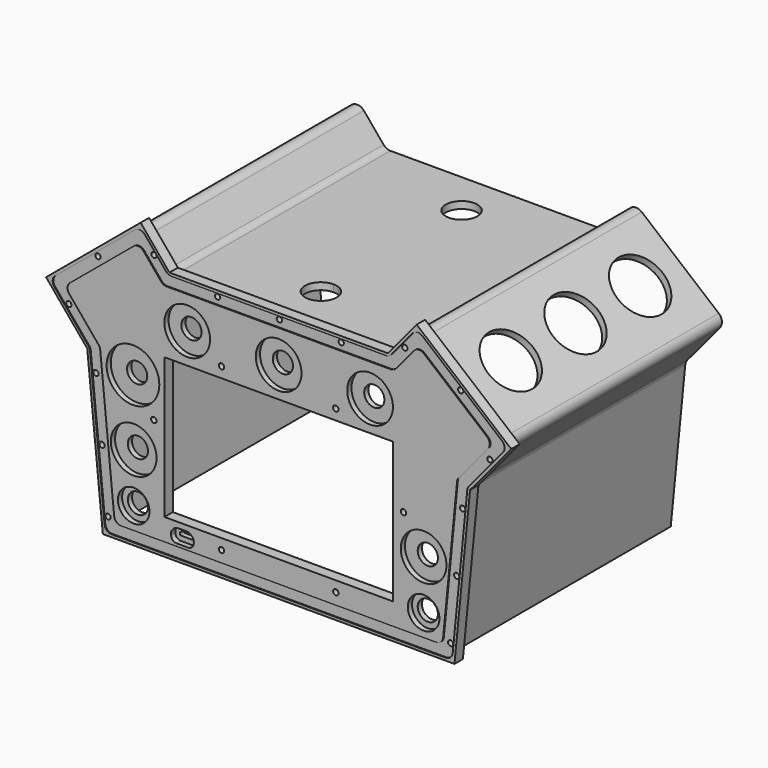
from build123d import *

# Parameters (mm, degrees)
F1_DEPTH  = 6
F3_DEPTH  = 0.5
F5_DEPTH  = 25
F7_R      = 1.5
F8_DEPTH  = 4
F9_R      = 1.5
F10_DEPTH = 1
F13_DEPTH = 150
F14_R     = 1.5
F15_DEPTH = 4
F6_R      = 9
F6_R_2    = 5.75
F6_R_3    = 13
F6_R_4    = 15
F16_DEPTH = 3
F6_R_5    = 1.55
F17_DEPTH = 8
F18_R     = 5
F19_R     = 16
F21_DEPTH = 4
F20_R     = 16
F22_DEPTH = 4
F23_R     = 4
F25_DEPTH = 25


with BuildPart() as f1:
    # F0 (on Front) → F1 (new body)
    with BuildSketch(Plane.XZ):
        Polygon((-132.2778422665, 86.7005174646), (-108.8532113969, 58.5797888532), (-100, -31.4202111468), (0, -31.4202111468), (100, -31.4202111468), (108.8532113969, 58.5797888532), (132.2778422665, 86.7005174646), (78.4935967725, 131.5029162469), (62.1075346203, 111.8318268983), (0, 111.8318268983), (-62.1075346203, 111.8318268983), (-78.4935967725, 131.5029162469), align=None)
    extrude(amount=F1_DEPTH)

    # F2 (on face) → F3 (cut)
    with BuildSketch(Plane.XZ.offset(6)):
        Polygon((-62.8102746949, 110.3318291657), (-78.6860646254, 129.3903484914), (-130.1652745109, 86.5080496117), (-107.4055608178, 59.1855387214), (-98.640315703, -29.9202134141), (98.640315703, -29.9202134141), (107.4055608178, 59.1855387214), (130.1652745109, 86.5080496117), (78.6860646254, 129.3903484914), (62.8102746949, 110.3318291657), align=None)
        Polygon((-121.7149907158, 85.7381770364), (-79.4559372007, 120.9400646963), (-65.6212392426, 104.3318291657), (65.6212392426, 104.3318291657), (79.4559372007, 120.9400646963), (121.7149907158, 85.7381770364), (101.6149497489, 61.6085418565), (93.2015702942, -23.9202134141), (-93.2015702942, -23.9202134141), (-101.6149497489, 61.6085418565), align=None, mode=Mode.SUBTRACT)
    extrude(amount=-F3_DEPTH, mode=Mode.SUBTRACT)

    # F4 (on face) → F5 (cut)
    with BuildSketch(Plane.XZ.offset(6)):
        Polygon((-65, -11.4703345299), (0, -11.4703345299), (65, -11.4703345299), (65, 68.5296654701), (-45.0328700244, 68.5296654701), (-65, 68.5296654701), align=None)
    extrude(amount=-F5_DEPTH, mode=Mode.SUBTRACT)

    # F7 (on face) → F8 (cut)
    with BuildSketch(Plane.XZ.offset(5.5)):
        with Locations((100.8311893593, 12.7868732325)):
            Circle(F7_R)
        with Locations((0, 108.3312272517)):
            Circle(F7_R)
        with Locations((71.3451554603, 117.451983377)):
            Circle(F7_R)
        with Locations((103.145215786, 106.4120438447)):
            Circle(F7_R)
        with Locations((97.4048682052, -22.0450133565)):
            Circle(F7_R)
        with Locations((104.2575105133, 47.6187598215)):
            Circle(F7_R)
        with Locations((35.1662226021, 108.3312272517)):
            Circle(F7_R)
        with Locations((-97.4048682052, -22.0450133565)):
            Circle(F7_R)
        with Locations((-100.8311893593, 12.7868732325)):
            Circle(F7_R)
        with Locations((-104.2575105133, 47.6187598215)):
            Circle(F7_R)
        with Locations((-103.145215786, 106.4120438447)):
            Circle(F7_R)
        with Locations((-71.3451554603, 117.451983377)):
            Circle(F7_R)
        with Locations((-35.1662226021, 108.3312272517)):
            Circle(F7_R)
        with Locations((119.7500549322, 77.1305920618)):
            Circle(F7_R)
        with Locations((-119.7500549322, 77.1305920618)):
            Circle(F7_R)
    extrude(amount=-F8_DEPTH, mode=Mode.SUBTRACT)

    # F9 (on face) → F10 (cut)
    with BuildSketch(Plane(origin=(0, 0, 0), x_dir=(-1, 0, 0), z_dir=(0, 1, 0))):
        Polygon((-62.8102746949, 110.3318291657), (-78.6860646254, 129.3903484914), (-130.1652745109, 86.5080496117), (-107.4055608178, 59.1855387214), (-98.640315703, -29.9202134141), (98.640315703, -29.9202134141), (107.4055608178, 59.1855387214), (130.1652745109, 86.5080496117), (78.6860646254, 129.3903484914), (62.8102746949, 110.3318291657), align=None)
        Polygon((-124.3909155202, 85.9819701646), (-79.2121440725, 123.6159895006), (-64.7310999361, 106.2318303035), (64.7310999361, 106.2318303035), (79.2121440725, 123.6159895006), (124.3909155202, 85.9819701646), (103.4486443522, 60.8412570709), (94.9238407051, -25.8202145519), (-94.9238407051, -25.8202145519), (-103.4486443522, 60.8412570709), align=None, mode=Mode.SUBTRACT)
        with Locations((103.145215786, 106.4120438447)):
            Circle(F9_R, mode=Mode.SUBTRACT)
    extrude(amount=-F10_DEPTH, mode=Mode.SUBTRACT)

    # F6 (on face) → F16 (cut)
    with BuildSketch(Plane.XZ.offset(6)):
        with Locations((-82.4464559555, -11.4864352222)):
            Circle(F6_R)
        with Locations((-82.4464559555, -11.4864352222)):
            Circle(F6_R_2, mode=Mode.SUBTRACT)
        with Locations((82.4464559555, -11.4864352222)):
            Circle(F6_R)
        with Locations((82.4464559555, -11.4864352222)):
            Circle(F6_R_2, mode=Mode.SUBTRACT)
        with Locations((-82.4464559555, 16.5135647778)):
            Circle(F6_R_3)
        with Locations((-82.4464559555, 16.5135647778)):
            Circle(F6_R_2, mode=Mode.SUBTRACT)
        with Locations((82.4464559555, 16.5135647778)):
            Circle(F6_R_3)
        with Locations((82.4464559555, 16.5135647778)):
            Circle(F6_R_2, mode=Mode.SUBTRACT)
        with Locations((0, 85.8318268983)):
            Circle(F6_R_3)
        with Locations((0, 85.8318268983)):
            Circle(F6_R_2, mode=Mode.SUBTRACT)
        with Locations((-52, 85.8318268983)):
            Circle(F6_R_3)
        with Locations((-52, 85.8318268983)):
            Circle(F6_R_2, mode=Mode.SUBTRACT)
        with Locations((52, 85.8318268983)):
            Circle(F6_R_3)
        with Locations((52, 85.8318268983)):
            Circle(F6_R_2, mode=Mode.SUBTRACT)
        with Locations((-82.8748941422, 53.7729853302)):
            Circle(F6_R_4)
        with Locations((-82.8748941422, 53.7729853302)):
            Circle(F6_R_2, mode=Mode.SUBTRACT)
        with BuildLine():
            Line((-61.1869924525, -18.7295077844), (-61.1869924525, -19.2715077844))
            ThreePointArc((-61.1869924525, -19.2715077844), (-60.2643789948, -21.498893707), (-58.0369930722, -22.4215071648))
            Line((-58.0369930722, -22.4215071648), (-51.4369930721, -22.4215071648))
            ThreePointArc((-51.4369930721, -22.4215071648), (-49.2096071495, -21.498893707), (-48.2869936917, -19.2715077844))
            Line((-48.2869936917, -19.2715077844), (-48.2869936917, -18.3915077844))
            ThreePointArc((-48.2869936917, -18.3915077844), (-48.5267731171, -17.1860552096), (-49.2096071495, -16.1641218618))
            add(Edge.make_bspline(
                [(-49.8796071495, -15.4941218618), (-49.6562738162, -15.7174551951), (-49.4329404828, -15.9407885284), (-49.2096071495, -16.1641218618)],
                knots=[0, 0, 0, 0, 1, 1, 1, 1], degree=3))
            ThreePointArc((-49.8796071495, -15.4941218618), (-50.9015404973, -14.8112878294), (-52.1069930721, -14.571508404))
            Line((-52.1069930721, -14.571508404), (-57.3669930721, -14.571508404))
            ThreePointArc((-57.3669930721, -14.571508404), (-58.572445647, -14.8112878294), (-59.5943789948, -15.4941218618))
            add(Edge.make_bspline(
                [(-59.5943789948, -15.4941218618), (-59.8177123281, -15.7174551951), (-60.0410456614, -15.9407885284), (-60.2643789948, -16.1641218618)],
                knots=[0, 0, 0, 0, 1, 1, 1, 1], degree=3))
            ThreePointArc((-60.2643789948, -16.1641218618), (-60.9472130271, -17.1860552096), (-61.1869924525, -18.3915077844))
            add(Edge.make_bspline(
                [(-61.1869924525, -18.3915077844), (-61.1869924525, -18.5041744511), (-61.1869924525, -18.6168411177), (-61.1869924525, -18.7295077844)],
                knots=[0, 0, 0, 0, 1, 1, 1, 1], degree=3))
        make_face()
        with BuildLine():
            add(Edge.make_bspline(
                [(-57.6851911237, -17.4033097329), (-57.908524457, -17.6266430662), (-58.1318577903, -17.8499763995), (-58.3551911237, -18.0733097329)],
                knots=[0, 0, 0, 0, 1, 1, 1, 1], degree=3))
            ThreePointArc((-57.6851911237, -17.4033097329), (-57.5392006167, -17.3057619948), (-57.3669930721, -17.2715077844))
            Line((-57.3669930721, -17.2715077844), (-52.1069930721, -17.2715077844))
            ThreePointArc((-52.1069930721, -17.2715077844), (-51.9347855276, -17.3057619948), (-51.7887950206, -17.4033097329))
            add(Edge.make_bspline(
                [(-51.7887950206, -17.4033097329), (-51.5654616873, -17.6266430662), (-51.3421283539, -17.8499763995), (-51.1187950206, -18.0733097329)],
                knots=[0, 0, 0, 0, 1, 1, 1, 1], degree=3))
            ThreePointArc((-51.1187950206, -18.0733097329), (-51.0212472825, -18.2193002398), (-50.9869930721, -18.3915077844))
            Line((-50.9869930721, -18.3915077844), (-50.9869930721, -19.2715077844))
            ThreePointArc((-50.9869930721, -19.2715077844), (-51.1187950206, -19.5897058359), (-51.4369930721, -19.7215077844))
            Line((-51.4369930721, -19.7215077844), (-58.0369930721, -19.7215077844))
            ThreePointArc((-58.0369930721, -19.7215077844), (-58.3551911237, -19.5897058359), (-58.4869930721, -19.2715077844))
            Line((-58.4869930721, -19.2715077844), (-58.4869930721, -18.7295077844))
            add(Edge.make_bspline(
                [(-58.4869930721, -18.3915077844), (-58.4869930721, -18.5041744511), (-58.4869930721, -18.6168411177), (-58.4869930721, -18.7295077844)],
                knots=[0, 0, 0, 0, 1, 1, 1, 1], degree=3))
            ThreePointArc((-58.4869930721, -18.3915077844), (-58.4527388618, -18.2193002398), (-58.3551911237, -18.0733097329))
        make_face(mode=Mode.SUBTRACT)
    extrude(amount=-F16_DEPTH, mode=Mode.SUBTRACT)

    # F6 (on face) → F17 (cut)
    with BuildSketch(Plane.XZ.offset(6)):
        with Locations((-82.4464559555, 16.5135647778)):
            Circle(F6_R_2)
        with Locations((-82.4464559555, -11.4864352222)):
            Circle(F6_R_2)
        with Locations((82.4464559555, 16.5135647778)):
            Circle(F6_R_2)
        with Locations((82.4464559555, -11.4864352222)):
            Circle(F6_R_2)
        with Locations((-82.8748941422, 53.7729853302)):
            Circle(F6_R_2)
        with Locations((-52, 85.8318268983)):
            Circle(F6_R_2)
        with Locations((0, 85.8318268983)):
            Circle(F6_R_2)
        with Locations((52, 85.8318268983)):
            Circle(F6_R_2)
        with BuildLine():
            ThreePointArc((-57.3669930721, -17.2715077844), (-57.5392006167, -17.3057619948), (-57.6851911237, -17.4033097329))
            add(Edge.make_bspline(
                [(-57.6851911237, -17.4033097329), (-57.908524457, -17.6266430662), (-58.1318577903, -17.8499763995), (-58.3551911237, -18.0733097329)],
                knots=[0, 0, 0, 0, 1, 1, 1, 1], degree=3))
            ThreePointArc((-58.3551911237, -18.0733097329), (-58.4527388618, -18.2193002398), (-58.4869930721, -18.3915077844))
            add(Edge.make_bspline(
                [(-58.4869930721, -18.3915077844), (-58.4869930721, -18.5041744511), (-58.4869930721, -18.6168411177), (-58.4869930721, -18.7295077844)],
                knots=[0, 0, 0, 0, 1, 1, 1, 1], degree=3))
            Line((-58.4869930721, -18.7295077844), (-58.4869930721, -19.2715077844))
            ThreePointArc((-58.4869930721, -19.2715077844), (-58.3551911237, -19.5897058359), (-58.0369930721, -19.7215077844))
            Line((-58.0369930721, -19.7215077844), (-51.4369930721, -19.7215077844))
            ThreePointArc((-51.4369930721, -19.7215077844), (-51.1187950206, -19.5897058359), (-50.9869930721, -19.2715077844))
            Line((-50.9869930721, -19.2715077844), (-50.9869930721, -18.3915077844))
            ThreePointArc((-50.9869930721, -18.3915077844), (-51.0212472825, -18.2193002398), (-51.1187950206, -18.0733097329))
            add(Edge.make_bspline(
                [(-51.7887950206, -17.4033097329), (-51.5654616873, -17.6266430662), (-51.3421283539, -17.8499763995), (-51.1187950206, -18.0733097329)],
                knots=[0, 0, 0, 0, 1, 1, 1, 1], degree=3))
            ThreePointArc((-51.7887950206, -17.4033097329), (-51.9347855276, -17.3057619948), (-52.1069930721, -17.2715077844))
            Line((-52.1069930721, -17.2715077844), (-57.3669930721, -17.2715077844))
        make_face()
        with Locations((-32.5, -17.4703345299)):
            Circle(F6_R_5)
        with Locations((32.5, -17.4703345299)):
            Circle(F6_R_5)
        with Locations((-32.5, 74.5296654701)):
            Circle(F6_R_5)
        with Locations((32.5, 74.5296654701)):
            Circle(F6_R_5)
        with Locations((-71, 35.1229853302)):
            Circle(F6_R_5)
        with Locations((71, 35.1229853302)):
            Circle(F6_R_5)
    extrude(amount=-F17_DEPTH, mode=Mode.SUBTRACT)

    # F23
    f23_edges = [f1.edges().sort_by_distance(p)[0] for p in [
        (-78.686065, -5.75, 129.390348),
        (-62.810275, -5.75, 110.331829),
        (-65.621239, -5.75, 104.331829),
        (-79.455937, -5.75, 120.940065),
        (-130.165275, -5.75, 86.50805),
        (-121.714991, -5.75, 85.738177),
        (-107.405561, -5.75, 59.185539),
        (-101.61495, -5.75, 61.608542),
        (65.621239, -5.75, 104.331829),
        (79.455937, -5.75, 120.940065),
        (121.714991, -5.75, 85.738177),
        (101.61495, -5.75, 61.608542),
        (93.20157, -5.75, -23.920213),
        (98.640316, -5.75, -29.920213),
        (107.405561, -5.75, 59.185539),
        (130.165275, -5.75, 86.50805),
        (78.686065, -5.75, 129.390348),
        (62.810275, -5.75, 110.331829),
        (-93.20157, -5.75, -23.920213),
        (-98.640316, -5.75, -29.920213),
    ]]
    fillet(f23_edges, radius=F23_R)


with BuildPart() as f13:
    # F12 (on face) → F13 (new body)
    with BuildSketch(Plane(origin=(0, -1, 0), x_dir=(-1, 0, 0), z_dir=(0, 1, 0))):
        Polygon((107.4055608178, 59.1855387214), (130.1652745109, 86.5080496117), (78.6860646254, 129.3903484914), (62.8102746949, 110.3318291657), (-62.8102746949, 110.3318291657), (-78.6860646254, 129.3903484914), (-130.1652745109, 86.5080496117), (-107.4055608178, 59.1855387214), (-99.0337696423, -25.9204383105), (-95.0144633077, -25.9204383105), (-103.5451534386, 60.8008741448), (-124.5317519809, 85.9948012282), (-79.199313009, 123.7568259613), (-64.68425106, 106.3318291657), (64.68425106, 106.3318291657), (79.199313009, 123.7568259613), (124.5317519809, 85.9948012282), (103.5451534386, 60.8008741448), (95.0144900885, -25.9201660614), (99.0337964232, -25.9201660614), align=None)
    extrude(amount=F13_DEPTH)

    # F14 (on face) → F15 (cut)
    with BuildSketch(Plane.XZ.offset(1)):
        with Locations((71.3451554603, 117.451983377)):
            Circle(F14_R)
        with Locations((103.145215786, 106.4120438447)):
            Circle(F14_R)
        with Locations((119.7500549322, 77.1305920618)):
            Circle(F14_R)
        with Locations((104.2575105133, 47.6187598215)):
            Circle(F14_R)
        with Locations((100.8311893593, 12.7868732325)):
            Circle(F14_R)
        with Locations((97.4048682052, -22.0450133565)):
            Circle(F14_R)
        with Locations((-97.4048682052, -22.0450133565)):
            Circle(F14_R)
        with Locations((-100.8311893593, 12.7868732325)):
            Circle(F14_R)
        with Locations((-104.2575105133, 47.6187598215)):
            Circle(F14_R)
        with Locations((-119.7500549322, 77.1305920618)):
            Circle(F14_R)
        with Locations((-103.145215786, 106.4120438447)):
            Circle(F14_R)
        with Locations((-71.3451554603, 117.451983377)):
            Circle(F14_R)
        with Locations((-35.1662226021, 108.3312272517)):
            Circle(F14_R)
        with Locations((0, 108.3312272517)):
            Circle(F14_R)
    extrude(amount=-F15_DEPTH, mode=Mode.SUBTRACT)

    # F18
    f18_edges = [f13.edges().sort_by_distance(p)[0] for p in [
        (130.165275, 74, 86.50805),
        (78.686065, 74, 129.390348),
        (-62.810275, 74, 110.331829),
        (-78.686065, 74, 129.390348),
        (62.810275, 74, 110.331829),
        (-130.165275, 74, 86.50805),
        (-107.405561, 74, 59.185539),
        (107.405561, 74, 59.185539),
    ]]
    fillet(f18_edges, radius=F18_R)

    # F19 (on face) → F21 (cut)
    with BuildSketch(Plane(origin=(95.8632968934, 0, 115.0816749574), x_dir=(0.7683463642, 0, -0.6400342683), z_dir=(0.6400342683, 0, 0.7683463642))):
        with Locations((11.1438946439, 28.5)):
            Circle(F19_R)
        with Locations((11.1438946439, 74.5)):
            Circle(F19_R)
        with Locations((11.1438946439, 120.5)):
            Circle(F19_R)
    extrude(amount=-F21_DEPTH, mode=Mode.SUBTRACT)

    # F20 (on face) → F22 (cut)
    with BuildSketch(Plane(origin=(-95.8632968934, 0, 115.0816749574), x_dir=(0.7683463642, 0, 0.6400342683), z_dir=(-0.6400342683, 0, 0.7683463642))):
        with Locations((-11.1438991786, 119.5)):
            Circle(F20_R)
        with Locations((-11.1438991786, 73.5)):
            Circle(F20_R)
        with Locations((-11.1438991786, 27.5)):
            Circle(F20_R)
    extrude(amount=-F22_DEPTH, mode=Mode.SUBTRACT)

    # F24 (on face) → F25 (cut)
    with BuildSketch(Plane.XY.offset(110.3318291657)):
        with BuildLine():
            ThreePointArc((0.0141209803, 32.9999998225), (-6.3522596523, 17.6366710183), (9.0123333646, 24))
            ThreePointArc((9.0123333646, 24), (6.3769263815, 30.3633289817), (0.0141209803, 32.9999998225))
        make_face()
        with BuildLine():
            ThreePointArc((9.0321957614, 124), (-6.3311332203, 130.3645930169), (0.0304081458, 115.0000001775))
            ThreePointArc((0.0304081458, 115.0000001775), (6.3955247432, 117.6354069831), (9.0321957614, 124))
        make_face()
    extrude(amount=-F25_DEPTH, mode=Mode.SUBTRACT)


solid = Compound([f1.part, f13.part])
